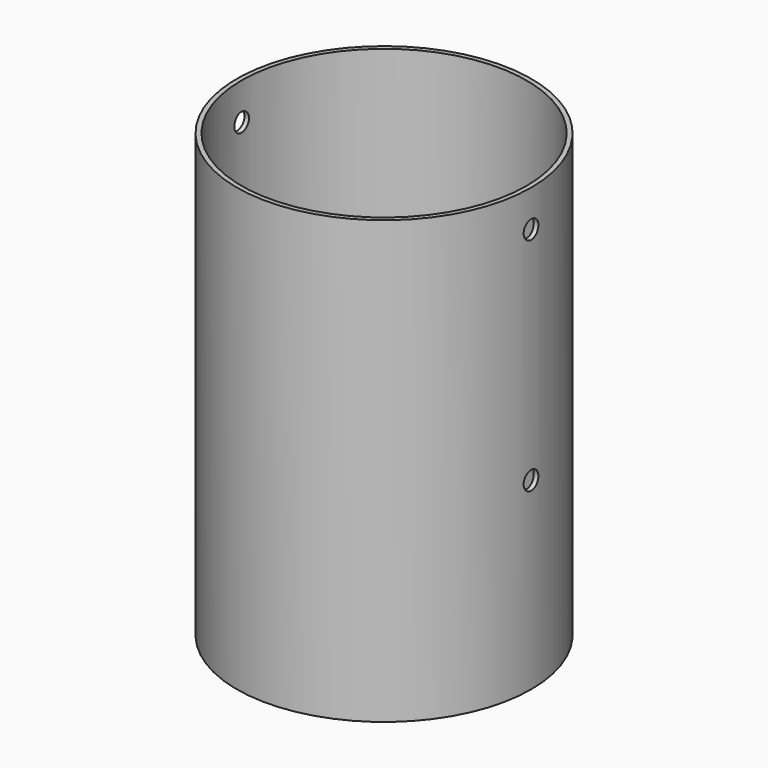
from build123d import *

# Parameters (mm, degrees)
F0_R     = 101.6
F1_DEPTH = 304.8
F2_T     = -3.175
F3_R     = 6.35
F4_DEPTH = 279.4


with BuildPart() as f1:
    # F0 (on Top) → F1 (new body)
    with BuildSketch(Plane.XY):
        Circle(F0_R)
    extrude(amount=F1_DEPTH)

    # F2
    f2_openings = [f1.faces().sort_by_distance(p)[0] for p in [
        (0, 0, 304.8),
    ]]
    offset(amount=F2_T, openings=f2_openings)

    # F3 (on Right) → F4 (cut, symmetric)
    with BuildSketch(Plane.YZ):
        with Locations((0, 279.4)):
            Circle(F3_R)
        with Locations((0, 127)):
            Circle(F3_R)
    extrude(amount=F4_DEPTH, both=True, mode=Mode.SUBTRACT)


solid = f1.part
